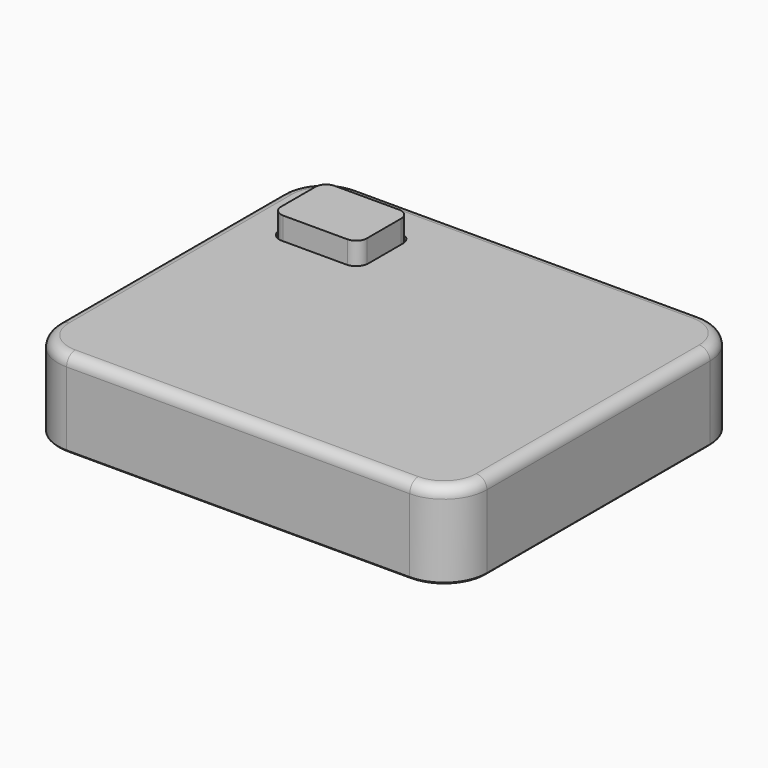
from build123d import *

# Parameters (mm, degrees)
F0_W      = 127
F0_H      = 107.95
F1_DEPTH  = 25.4
F2_W      = 25.4
F2_H      = 19.05
F3_DEPTH  = 6.35
F4_R      = 3.175
F5_R      = 1.524
F6_R      = 12.7
F7_R      = 3.175
F8_SIZE   = 0.508
F9_OFFSET = 0.508


with BuildPart() as f1:
    # F0 (on Top) → F1 (new body)
    with BuildSketch(Plane.XY):
        Rectangle(F0_W, F0_H)
    extrude(amount=F1_DEPTH)

    # F6
    f6_edges = [f1.edges().sort_by_distance(p)[0] for p in [
        (63.5, -53.975, 12.7),
        (63.5, 53.975, 12.7),
        (-63.5, 53.975, 12.7),
        (-63.5, -53.975, 12.7),
    ]]
    fillet(f6_edges, radius=F6_R)

    # F7
    f7_edges = [f1.edges().sort_by_distance(p)[0] for p in [
        (0, -53.975, 25.4),
    ]]
    fillet(f7_edges, radius=F7_R)

    # F8
    f8_edges = [f1.edges().sort_by_distance(p)[0] for p in [
        (0, -53.975, 0),
    ]]
    chamfer(f8_edges, length=F8_SIZE)


with BuildPart() as f3:
    # F2 (on face) → F3 (new body, symmetric)
    with BuildSketch(Plane.XY.offset(25.4)):
        with Locations((-38.1, 31.75)):
            Rectangle(F2_W, F2_H)
    extrude(amount=F3_DEPTH, both=True)

    # F4
    f4_edges = [f3.edges().sort_by_distance(p)[0] for p in [
        (-25.4, 41.275, 25.4),
        (-25.4, 22.225, 25.4),
        (-50.8, 22.225, 25.4),
        (-50.8, 41.275, 25.4),
    ]]
    fillet(f4_edges, radius=F4_R)

    # F5
    f5_edges = [f3.edges().sort_by_distance(p)[0] for p in [
        (-38.1, 22.225, 19.05),
    ]]
    fillet(f5_edges, radius=F5_R)


with BuildPart() as f1_1:
    add(f1.part)

    # F9: cut F3, made larger all round first
    f9_tool = offset(f3.part, amount=F9_OFFSET, kind=Kind.INTERSECTION, mode=Mode.PRIVATE)
    add(f9_tool, mode=Mode.SUBTRACT)


solid = Compound([f3.part, f1_1.part])
